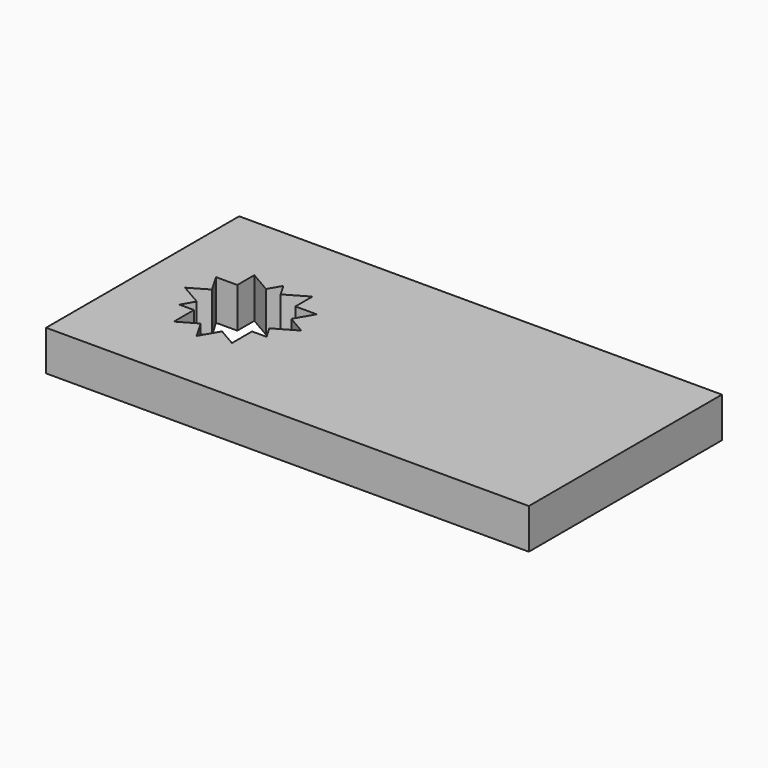
from build123d import *

# Parameters (mm, degrees)
F0_W     = 76.2
F0_H     = 38.1
F1_DEPTH = 6.35


with BuildPart() as f1:
    # F0 (on Top) → F1 (new body)
    with BuildSketch(Plane.XY):
        Rectangle(F0_W, F0_H)
        Polygon((-21.091462, 5.95622), (-17.652636, 7.941627), (-17.652636, 4.5851), (-14.29611, 4.5851), (-15.974373, 1.678263), (-13.067536, 0), (-16.506361, -1.985407), (-15.360086, -3.970813), (-17.652636, -3.970813), (-17.652636, -7.941627), (-20.559474, -6.263364), (-22.237737, -9.170201), (-23.916, -6.263364), (-26.822837, -7.941627), (-26.822837, -3.970813), (-29.115387, -3.970813), (-27.969112, -1.985407), (-31.407937, 0), (-28.5011, 1.678263), (-30.179363, 4.5851), (-26.822837, 4.5851), (-26.822837, 7.941627), (-23.384012, 5.95622), (-22.237737, 7.941627), align=None, mode=Mode.SUBTRACT)
    extrude(amount=F1_DEPTH)


solid = f1.part
